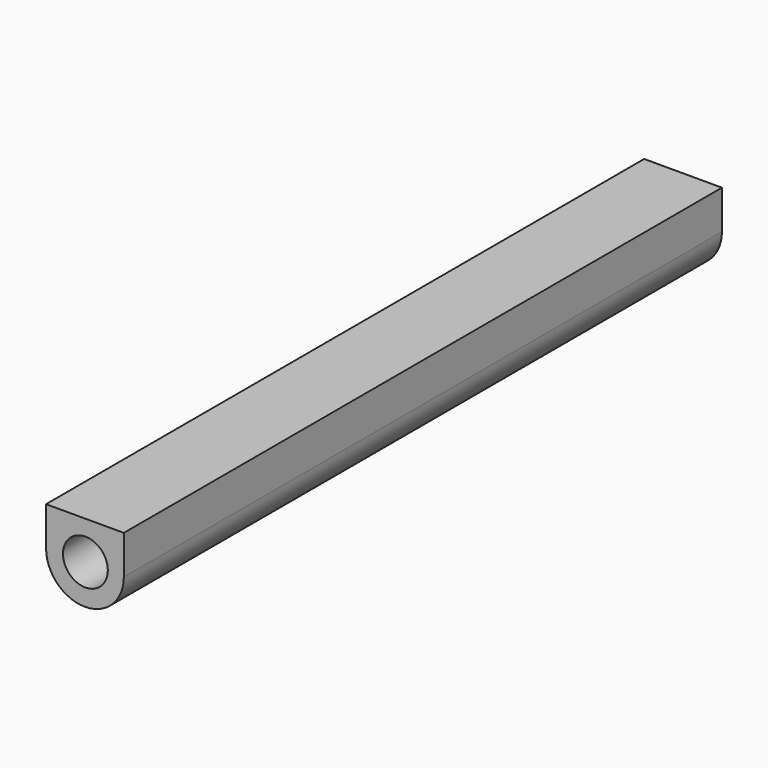
from build123d import *

# Parameters (mm, degrees)
F1_DEPTH = 25
F2_R     = 0.75
F3_DEPTH = 25


with BuildPart() as f1:
    # F0 (on Front) → F1 (new body)
    with BuildSketch(Plane.XZ):
        with BuildLine():
            Line((1.285368, 0), (-1.314632, 0))
            Line((-1.314632, 0), (-1.314632, -1.3))
            ThreePointArc((-1.314632, -1.3), (-0.014632, -2.6), (1.285368, -1.3))
            Line((1.285368, -1.3), (1.285368, 0))
        make_face()
    extrude(amount=F1_DEPTH)

    # F2 (on Front) → F3 (cut)
    with BuildSketch(Plane.XZ):
        with Locations((0, -1.276303)):
            Circle(F2_R)
    extrude(amount=F3_DEPTH, mode=Mode.SUBTRACT)


solid = f1.part
